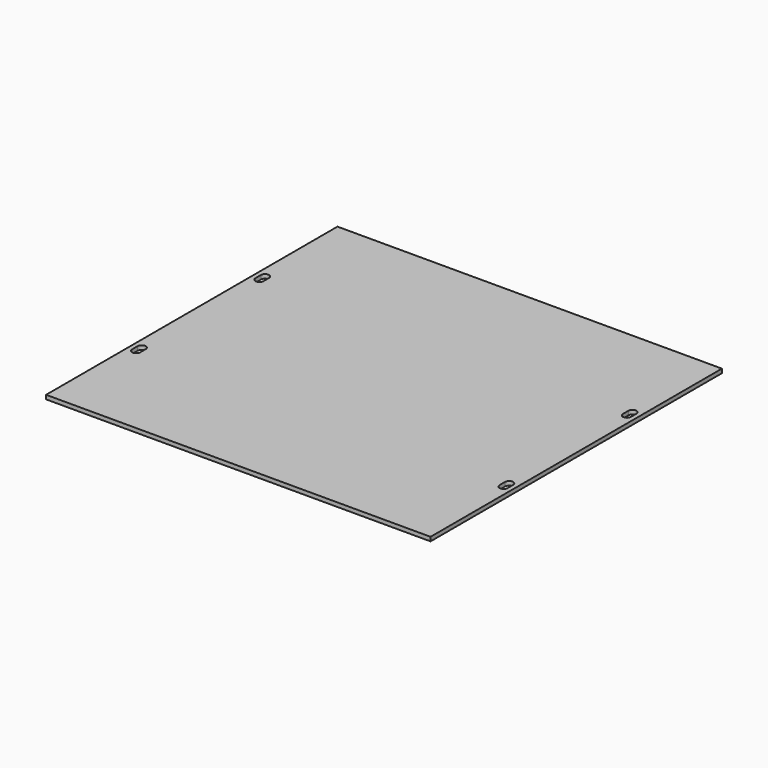
from build123d import *

# Parameters (mm, degrees)
SKETCH_W     = 190
SKETCH_H     = 180
PAD_DEPTH    = 2
POCKET_DEPTH = 5


with BuildPart() as part:
    # Sketch → Pad (new body)
    with BuildSketch(Plane.XY):
        Rectangle(SKETCH_W, SKETCH_H)
    extrude(amount=PAD_DEPTH)

    # Sketch001 (on Face6 of Pad) → Pocket (cut)
    with BuildSketch(Plane.XY.offset(2)):
        with BuildLine():
            ThreePointArc((-88.8, 40), (-90.8, 42), (-92.8, 40))
            Line((-92.8, 40), (-92.8, 36.6))
            ThreePointArc((-92.8, 36.6), (-90.8, 34.6), (-88.8, 36.6))
            Line((-88.8, 40), (-88.8, 36.6))
        make_face()
        with BuildLine():
            ThreePointArc((92.8, 40), (90.8, 42), (88.8, 40))
            Line((88.8, 40), (88.8, 36.6))
            ThreePointArc((88.8, 36.6), (90.8, 34.6), (92.8, 36.6))
            Line((92.8, 40), (92.8, 36.6))
        make_face()
        with BuildLine():
            ThreePointArc((-88.8, -36.2), (-90.8, -34.2), (-92.8, -36.2))
            Line((-92.8, -36.2), (-92.8, -39.6))
            ThreePointArc((-92.8, -39.6), (-90.8, -41.6), (-88.8, -39.6))
            Line((-88.8, -36.2), (-88.8, -39.6))
        make_face()
        with BuildLine():
            ThreePointArc((92.8, -36.2), (90.8, -34.2), (88.8, -36.2))
            Line((88.8, -36.2), (88.8, -39.6))
            ThreePointArc((88.8, -39.6), (90.8, -41.6), (92.8, -39.6))
            Line((92.8, -36.2), (92.8, -39.6))
        make_face()
    extrude(amount=-POCKET_DEPTH, mode=Mode.SUBTRACT)


solid = part.part
